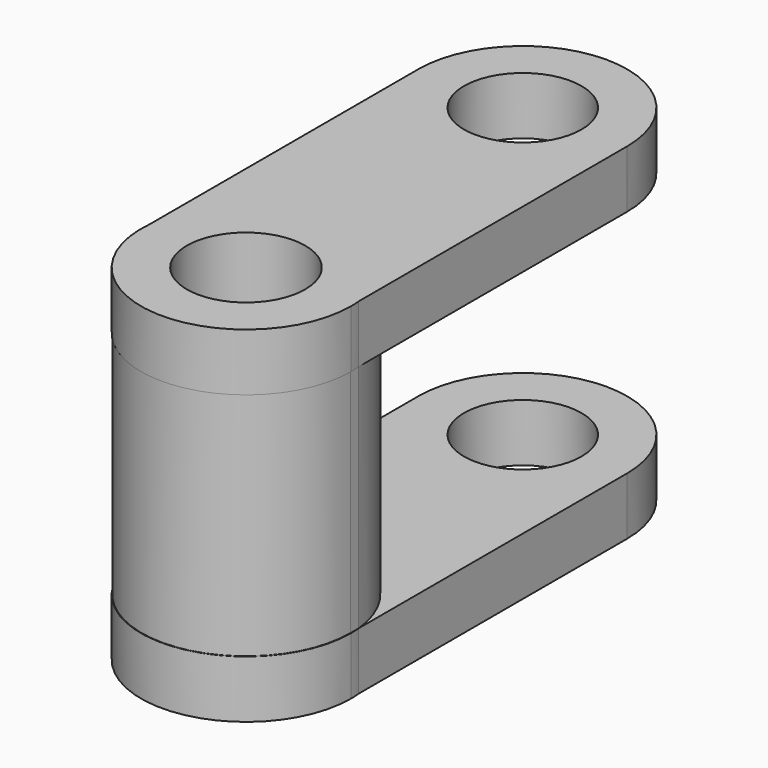
from build123d import *

# Parameters (mm, degrees)
F1_DEPTH = 76.2
F2_DEPTH = 25.4


with BuildPart() as f1:
    # F0 (on Top) → F1 (new body)
    with BuildSketch(Plane.XY):
        with BuildLine():
            Line((48.4909079969, -76.0845467448), (48.4909079969, -71.5253020613))
            ThreePointArc((48.4909079969, -71.5253020613), (2.4245455861, -29.7931171077), (-43.6418168247, -71.5253020613))
            Line((-43.6418168247, -71.5253020613), (-43.6418168247, -76.0845467448))
            Line((-43.6418168247, -76.0845467448), (-23.7078333656, -76.0845467448))
            ThreePointArc((-23.7078333656, -76.0845467448), (2.4245455861, -49.9521677931), (28.5569245378, -76.0845467448))
            Line((28.5569245378, -76.0845467448), (48.4909079969, -76.0845467448))
        make_face()
        with BuildLine():
            ThreePointArc((-43.6418168247, -76.0845467448), (2.4245455861, -122.1509091556), (48.4909079969, -76.0845467448))
            Line((48.4909079969, -76.0845467448), (28.5569245378, -76.0845467448))
            ThreePointArc((28.5569245378, -76.0845467448), (2.4245455861, -102.2169256965), (-23.7078333656, -76.0845467448))
            Line((-23.7078333656, -76.0845467448), (-43.6418168247, -76.0845467448))
        make_face()
    extrude(amount=F1_DEPTH)

    # F0 (on Top) → F2 (join)
    with BuildSketch(Plane.XY):
        with BuildLine():
            ThreePointArc((-23.5266864031, 76.5463635325), (2.4245455861, 102.4975955217), (28.3757775753, 76.5463635325))
            Line((28.3757775753, 76.5463635325), (48.4909079969, 76.5463635325))
            ThreePointArc((48.4909079969, 76.5463635325), (2.4245455861, 122.6127259433), (-43.6418168247, 76.5463635325))
            Line((-43.6418168247, 76.5463635325), (-23.5266864031, 76.5463635325))
        make_face()
        with BuildLine():
            Line((48.4909079969, 76.5463635325), (28.3757775753, 76.5463635325))
            ThreePointArc((28.3757775753, 76.5463635325), (2.4245455861, 50.5951315433), (-23.5266864031, 76.5463635325))
            Line((-23.5266864031, 76.5463635325), (-43.6418168247, 76.5463635325))
            Line((-43.6418168247, 76.5463635325), (-43.6418168247, -71.5253020613))
            ThreePointArc((-43.6418168247, -71.5253020613), (2.4245455861, -29.7931171077), (48.4909079969, -71.5253020613))
            Line((48.4909079969, -71.5253020613), (48.4909079969, 76.5463635325))
        make_face()
        with BuildLine():
            ThreePointArc((48.7159752232, -76.0845467448), (48.6596741791, -73.8021484809), (48.4909079969, -71.5253020613))
            Line((48.4909079969, -71.5253020613), (48.4909079969, -76.0845467448))
            ThreePointArc((48.4909079969, -76.0845467448), (2.4245455861, -122.1509091556), (-43.6418168247, -76.0845467448))
            Line((-43.6418168247, -76.0845467448), (-43.6418168247, -71.5253020613))
            ThreePointArc((-43.6418168247, -71.5253020613), (0.1421473222, -122.3196753378), (48.7159752232, -76.0845467448))
        make_face()
        with BuildLine():
            Line((48.4909079969, -76.0845467448), (48.4909079969, -71.5253020613))
            ThreePointArc((48.4909079969, -71.5253020613), (2.4245455861, -29.7931171077), (-43.6418168247, -71.5253020613))
            Line((-43.6418168247, -71.5253020613), (-43.6418168247, -76.0845467448))
            Line((-43.6418168247, -76.0845467448), (-23.7078333656, -76.0845467448))
            ThreePointArc((-23.7078333656, -76.0845467448), (2.4245455861, -49.9521677931), (28.5569245378, -76.0845467448))
            Line((28.5569245378, -76.0845467448), (48.4909079969, -76.0845467448))
        make_face()
    extrude(amount=F2_DEPTH)

    # F3: F1 across face


with BuildPart() as f1_1:
    add(f1.part)
    add(f1.part.mirror(Plane(origin=(2.4245455861, -75.8742165299, 76.2), x_dir=(1, 0, 0), z_dir=(0, 0, 1))))


solid = f1_1.part
